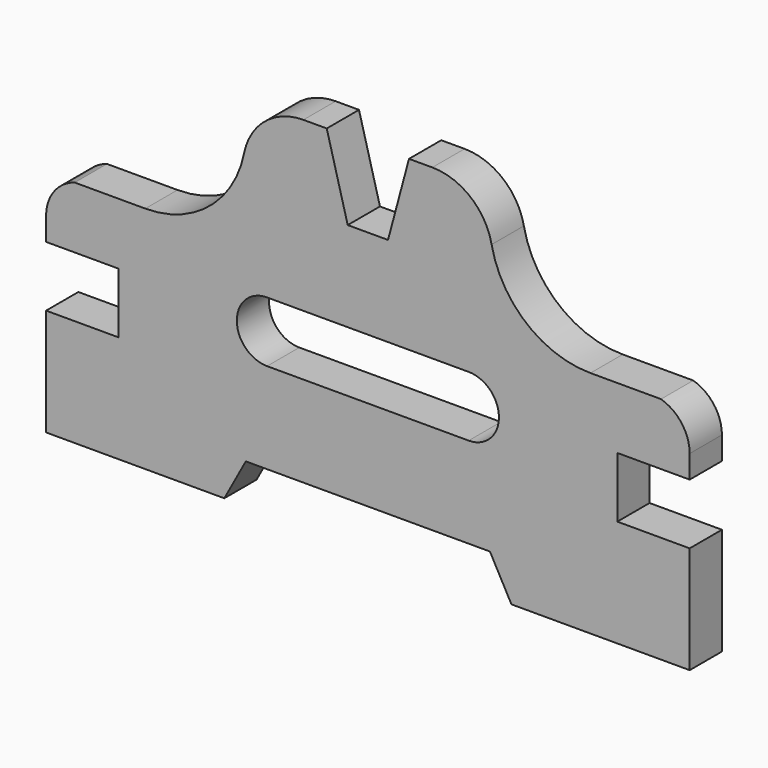
from build123d import *

# Parameters (mm, degrees)
F1_DEPTH = 6.35


with BuildPart() as f1:
    # F0 (on Front) → F1 (new body, symmetric)
    with BuildSketch(Plane.XZ):
        with BuildLine():
            Line((-101.346, 19.05), (-78.565508, 19.05))
            Line((-78.565508, 19.05), (-78.565508, 0))
            Line((-78.565508, 0), (-101.346, 0))
            Line((-101.346, 0), (-101.346, -33.782))
            Line((-101.346, -33.782), (-45.212, -33.782))
            Line((-45.212, -33.782), (-38.445242, -21.336))
            Line((-38.445242, -21.336), (38.445242, -21.336))
            Line((38.445242, -21.336), (45.212, -33.782))
            Line((45.212, -33.782), (101.346, -33.782))
            Line((101.346, -33.782), (101.346, 0))
            Line((101.346, 0), (78.565508, 0))
            Line((78.565508, 0), (78.565508, 19.05))
            Line((78.565508, 19.05), (101.346, 19.05))
            Line((101.346, 19.05), (101.346, 26.28651))
            ThreePointArc((101.346, 26.28651), (98.844738, 33.854584), (92.326198, 38.441597))
            Line((92.326198, 38.441597), (70.104, 38.441597))
            ThreePointArc((70.104, 38.441597), (49.982469, 45.631742), (38.974432, 63.945599))
            ThreePointArc((38.974432, 63.945599), (32.36961, 74.933913), (20.296691, 79.248))
            Line((20.296691, 79.248), (12.951732, 79.248))
            Line((12.951732, 79.248), (6.35, 54.61))
            Line((6.35, 54.61), (-6.35, 54.61))
            Line((-6.35, 54.61), (-12.951732, 79.248))
            Line((-12.951732, 79.248), (-20.296691, 79.248))
            ThreePointArc((-20.296691, 79.248), (-32.36961, 74.933913), (-38.974432, 63.945599))
            ThreePointArc((-38.974432, 63.945599), (-49.982469, 45.631742), (-70.104, 38.441597))
            Line((-70.104, 38.441597), (-92.326198, 38.441597))
            ThreePointArc((-92.326198, 38.441597), (-98.844738, 33.854584), (-101.346, 26.28651))
            Line((-101.346, 26.28651), (-101.346, 19.05))
        make_face()
        with BuildLine():
            ThreePointArc((-31.75, 7.239), (-41.275, 16.764), (-31.75, 26.289))
            Line((-31.75, 26.289), (31.75, 26.289))
            ThreePointArc((31.75, 26.289), (41.275, 16.764), (31.75, 7.239))
            Line((31.75, 7.239), (-31.75, 7.239))
        make_face(mode=Mode.SUBTRACT)
    extrude(amount=F1_DEPTH, both=True)


solid = f1.part
